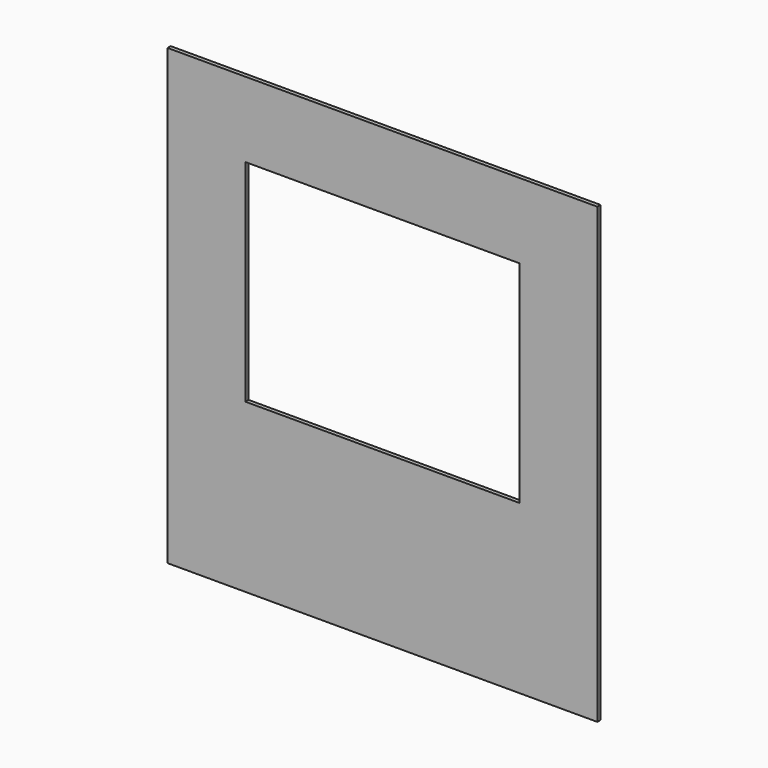
from build123d import *

# Parameters (mm, degrees)
F0_W     = 104
F0_H     = 80
F1_DEPTH = 1.5


with BuildPart() as f1:
    # F0 (on Front) → F1 (new body)
    with BuildSketch(Plane.XZ):
        Polygon((81.5, -86), (81.5, 86), (-81.5, 86), (-81.5, -86), (-3, -86), (3, -86), align=None)
        with Locations((0, 17.5)):
            Rectangle(F0_W, F0_H, mode=Mode.SUBTRACT)
    extrude(amount=F1_DEPTH)


solid = f1.part
